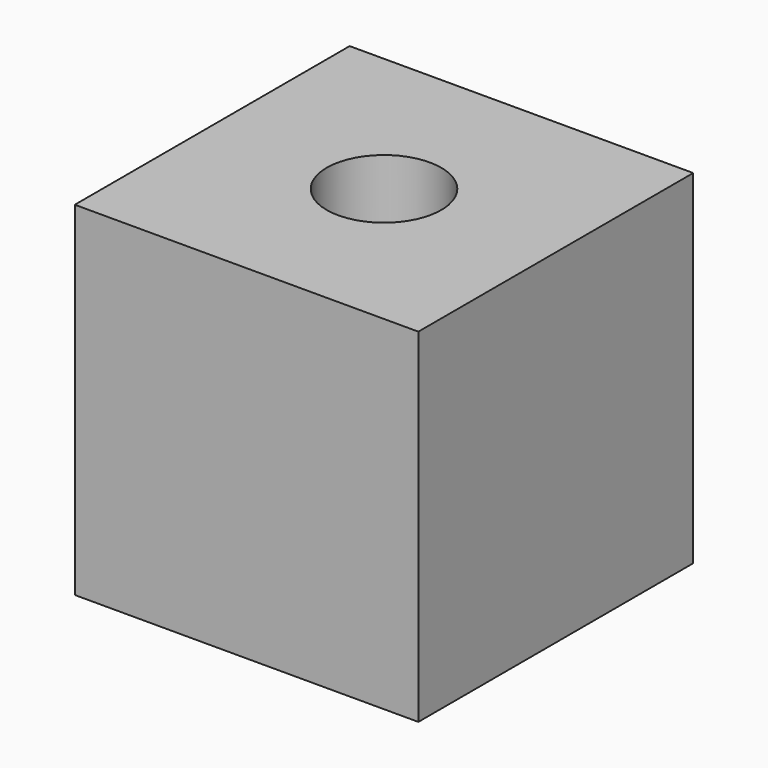
from build123d import *

# Parameters (mm, degrees)
F0_W     = 76.2
F0_H     = 76.2
F1_DEPTH = 76.2
F3_D     = 25.4


with BuildPart() as f1:
    # F0 (on Front) → F1 (new body)
    with BuildSketch(Plane.XZ):
        with Locations((-11.849822, -0.77489)):
            Rectangle(F0_W, F0_H)
    extrude(amount=-F1_DEPTH)

    # F3 (through all)
    with Locations(Plane.XY.offset(37.32511)):
        with Locations((-11.849822, 38.1)):
            Hole(F3_D / 2)


solid = f1.part
